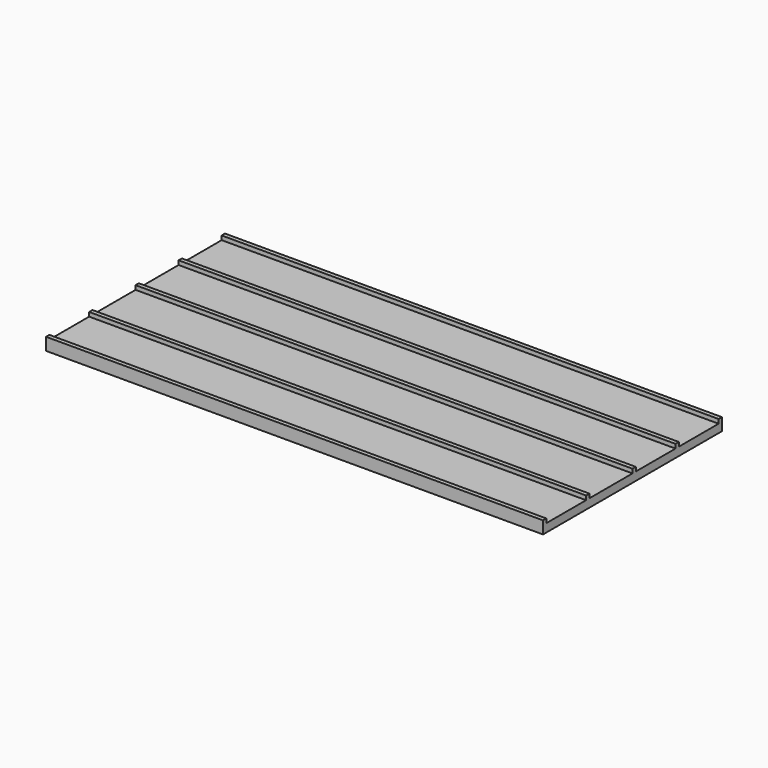
from build123d import *

# Parameters (mm, degrees)
F0_W     = 3048
F0_H     = 1371.6
F1_DEPTH = 50.8
F2_W     = 3048
F2_H     = 25.4
F3_DEPTH = 25.4


with BuildPart() as f1:
    # F0 (on Top) → F1 (new body)
    with BuildSketch(Plane.XY):
        with Locations((498.638901, 76.2)):
            Rectangle(F0_W, F0_H)
        with Locations((498.638901, 76.2)):
            Rectangle(F0_W, F0_H)
    extrude(amount=F1_DEPTH)

    # F2 (on face) → F3 (join)
    with BuildSketch(Plane.XY.offset(50.8)):
        with Locations((498.638901, 749.3)):
            Rectangle(F2_W, F2_H)
        with Locations((498.638901, 419.1)):
            Rectangle(F2_W, F2_H)
        with Locations((498.638901, 88.9)):
            Rectangle(F2_W, F2_H)
        with Locations((498.638901, -266.7)):
            Rectangle(F2_W, F2_H)
        with Locations((498.638901, -596.9)):
            Rectangle(F2_W, F2_H)
    extrude(amount=F3_DEPTH)


solid = f1.part
